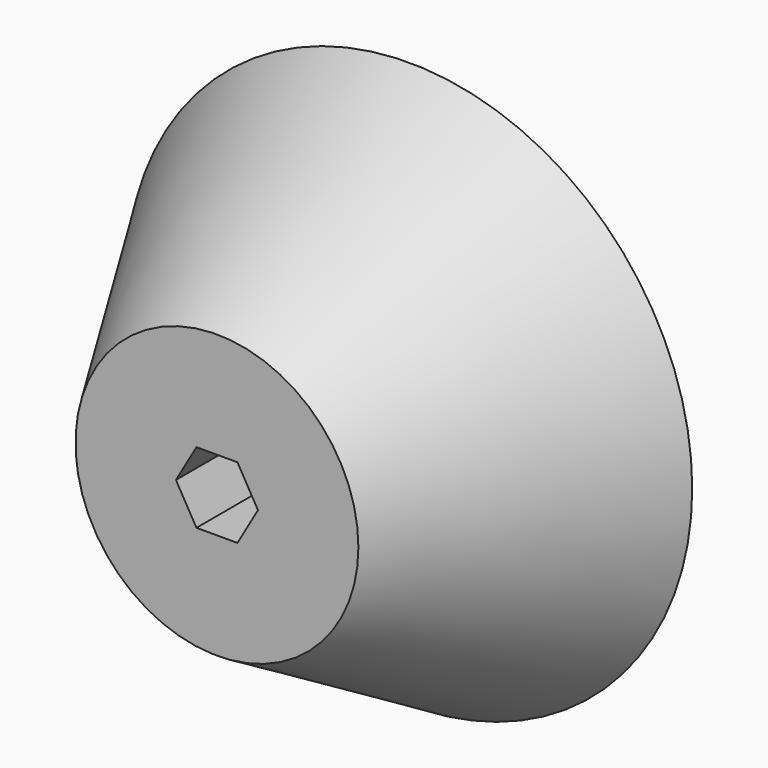
from build123d import *

# Parameters (mm, degrees)
F0_R     = 50.8
F2_R     = 25.4
F5_DEPTH = 60.706


with BuildPart() as f3:
    # F0 (on Front) → F3 section 0
    with BuildSketch(Plane.XZ):
        Circle(F0_R)
    # F2 (on offset) → F3 section 1
    with BuildSketch(Plane.XZ.offset(43.18)):
        Circle(F2_R)
    loft()

    # F4 (on face) → F5 (cut)
    with BuildSketch(Plane.XZ.offset(43.18)):
        Polygon((-3.6808389062, -6.3754), (3.6808389062, -6.3754), (7.3616778124, 0), (3.6808389062, 6.3754), (-3.6808389062, 6.3754), (-7.3616778124, 0), align=None)
    extrude(amount=-F5_DEPTH, mode=Mode.SUBTRACT)


solid = f3.part
